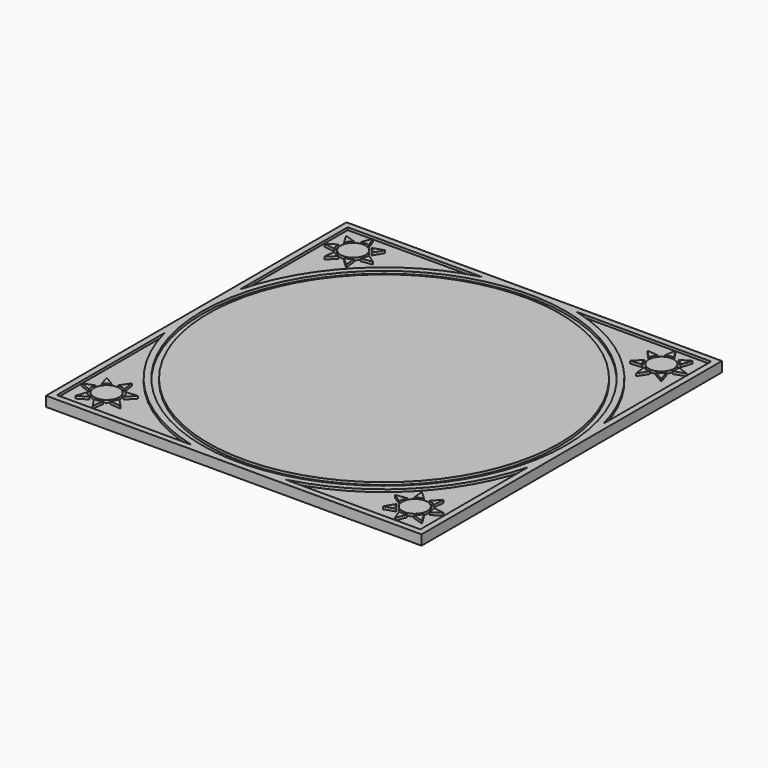
from build123d import *

# Parameters (mm, degrees)
F0_W     = 75
F0_H     = 75
F1_DEPTH = 2
F2_R     = 2.5
F2_R_2   = 36.3
F2_R_3   = 35.1
F3_DEPTH = 0.5
F4_R     = 36.3
F4_R_2   = 35.1
F5_DEPTH = 0.7


with BuildPart() as f1:
    # F0 (on Top) → F1 (new body)
    with BuildSketch(Plane.XY):
        Rectangle(F0_W, F0_H)
    extrude(amount=F1_DEPTH)

    # F2 (on face) → F3 (cut)
    with BuildSketch(Plane.XY.offset(2)):
        with BuildLine():
            Line((9.410632, -36.3), (36.3, -36.3))
            Line((36.3, -36.3), (36.3, -9.410632))
            ThreePointArc((36.3, -9.410632), (26.516504, -26.516504), (9.410632, -36.3))
        make_face()
        with BuildLine():
            ThreePointArc((28.135717, -29.353242), (27.851791, -30.109011), (27.779684, -30.913127))
            Line((27.779684, -30.913127), (25.901935, -29.66397))
            Line((25.901935, -29.66397), (28.135717, -29.353242))
        make_face(mode=Mode.SUBTRACT)
        with BuildLine():
            Line((30.776574, -35.776574), (29.976574, -33.667941))
            ThreePointArc((29.976574, -33.667941), (30.776574, -33.776574), (31.576574, -33.667941))
            Line((31.576574, -33.667941), (30.776574, -35.776574))
        make_face(mode=Mode.SUBTRACT)
        with BuildLine():
            ThreePointArc((28.017221, -31.953847), (28.43108, -32.647044), (29.014805, -33.204777))
            Line((29.014805, -33.204777), (26.867417, -33.894023))
            Line((26.867417, -33.894023), (28.017221, -31.953847))
        make_face(mode=Mode.SUBTRACT)
        with BuildLine():
            ThreePointArc((32.538344, -33.204777), (33.122069, -32.647044), (33.535927, -31.953847))
            Line((33.535927, -31.953847), (34.685732, -33.894023))
            Line((34.685732, -33.894023), (32.538344, -33.204777))
        make_face(mode=Mode.SUBTRACT)
        with Locations((30.776574, -30.776574)):
            Circle(F2_R, mode=Mode.SUBTRACT)
        with BuildLine():
            ThreePointArc((30.242832, -27.824436), (29.474923, -28.073668), (28.801282, -28.51865))
            Line((28.801282, -28.51865), (28.607156, -26.27173))
            Line((28.607156, -26.27173), (30.242832, -27.824436))
        make_face(mode=Mode.SUBTRACT)
        with BuildLine():
            ThreePointArc((33.773465, -30.913127), (33.701358, -30.109011), (33.417431, -29.353242))
            Line((33.417431, -29.353242), (35.651214, -29.66397))
            Line((35.651214, -29.66397), (33.773465, -30.913127))
        make_face(mode=Mode.SUBTRACT)
        with BuildLine():
            ThreePointArc((32.751866, -28.51865), (32.078225, -28.073668), (31.310316, -27.824436))
            Line((31.310316, -27.824436), (32.945993, -26.27173))
            Line((32.945993, -26.27173), (32.751866, -28.51865))
        make_face(mode=Mode.SUBTRACT)
        with BuildLine():
            Line((36.3, 9.410632), (36.3, 36.3))
            Line((36.3, 36.3), (9.410632, 36.3))
            ThreePointArc((9.410632, 36.3), (26.516504, 26.516504), (36.3, 9.410632))
        make_face()
        with BuildLine():
            ThreePointArc((29.353242, 28.135717), (30.109011, 27.851791), (30.913127, 27.779684))
            Line((30.913127, 27.779684), (29.66397, 25.901935))
            Line((29.66397, 25.901935), (29.353242, 28.135717))
        make_face(mode=Mode.SUBTRACT)
        with BuildLine():
            ThreePointArc((27.824436, 30.242832), (28.073668, 29.474923), (28.51865, 28.801282))
            Line((28.51865, 28.801282), (26.27173, 28.607156))
            Line((26.27173, 28.607156), (27.824436, 30.242832))
        make_face(mode=Mode.SUBTRACT)
        with Locations((30.776574, 30.776574)):
            Circle(F2_R, mode=Mode.SUBTRACT)
        with BuildLine():
            ThreePointArc((31.953847, 28.017221), (32.647044, 28.43108), (33.204777, 29.014805))
            Line((33.204777, 29.014805), (33.894023, 26.867417))
            Line((33.894023, 26.867417), (31.953847, 28.017221))
        make_face(mode=Mode.SUBTRACT)
        with BuildLine():
            Line((35.776574, 30.776574), (33.667941, 29.976574))
            ThreePointArc((33.667941, 29.976574), (33.776574, 30.776574), (33.667941, 31.576574))
            Line((33.667941, 31.576574), (35.776574, 30.776574))
        make_face(mode=Mode.SUBTRACT)
        with BuildLine():
            ThreePointArc((28.51865, 32.751866), (28.073668, 32.078225), (27.824436, 31.310316))
            Line((27.824436, 31.310316), (26.27173, 32.945993))
            Line((26.27173, 32.945993), (28.51865, 32.751866))
        make_face(mode=Mode.SUBTRACT)
        with BuildLine():
            ThreePointArc((30.913127, 33.773465), (30.109011, 33.701358), (29.353242, 33.417431))
            Line((29.353242, 33.417431), (29.66397, 35.651214))
            Line((29.66397, 35.651214), (30.913127, 33.773465))
        make_face(mode=Mode.SUBTRACT)
        with BuildLine():
            ThreePointArc((33.204777, 32.538344), (32.647044, 33.122069), (31.953847, 33.535927))
            Line((31.953847, 33.535927), (33.894023, 34.685732))
            Line((33.894023, 34.685732), (33.204777, 32.538344))
        make_face(mode=Mode.SUBTRACT)
        with BuildLine():
            Line((-36.3, -9.410632), (-36.3, -36.3))
            Line((-36.3, -36.3), (-9.410632, -36.3))
            ThreePointArc((-9.410632, -36.3), (-26.516504, -26.516504), (-36.3, -9.410632))
        make_face()
        with BuildLine():
            ThreePointArc((-33.204777, -32.538344), (-32.647044, -33.122069), (-31.953847, -33.535927))
            Line((-31.953847, -33.535927), (-33.894023, -34.685732))
            Line((-33.894023, -34.685732), (-33.204777, -32.538344))
        make_face(mode=Mode.SUBTRACT)
        with BuildLine():
            ThreePointArc((-30.913127, -33.773465), (-30.109011, -33.701358), (-29.353242, -33.417431))
            Line((-29.353242, -33.417431), (-29.66397, -35.651214))
            Line((-29.66397, -35.651214), (-30.913127, -33.773465))
        make_face(mode=Mode.SUBTRACT)
        with BuildLine():
            ThreePointArc((-28.51865, -32.751866), (-28.073668, -32.078225), (-27.824436, -31.310316))
            Line((-27.824436, -31.310316), (-26.27173, -32.945993))
            Line((-26.27173, -32.945993), (-28.51865, -32.751866))
        make_face(mode=Mode.SUBTRACT)
        with BuildLine():
            Line((-35.776574, -30.776574), (-33.667941, -29.976574))
            ThreePointArc((-33.667941, -29.976574), (-33.776574, -30.776574), (-33.667941, -31.576574))
            Line((-33.667941, -31.576574), (-35.776574, -30.776574))
        make_face(mode=Mode.SUBTRACT)
        with BuildLine():
            ThreePointArc((-31.953847, -28.017221), (-32.647044, -28.43108), (-33.204777, -29.014805))
            Line((-33.204777, -29.014805), (-33.894023, -26.867417))
            Line((-33.894023, -26.867417), (-31.953847, -28.017221))
        make_face(mode=Mode.SUBTRACT)
        with Locations((-30.776574, -30.776574)):
            Circle(F2_R, mode=Mode.SUBTRACT)
        with BuildLine():
            ThreePointArc((-27.824436, -30.242832), (-28.073668, -29.474923), (-28.51865, -28.801282))
            Line((-28.51865, -28.801282), (-26.27173, -28.607156))
            Line((-26.27173, -28.607156), (-27.824436, -30.242832))
        make_face(mode=Mode.SUBTRACT)
        with BuildLine():
            ThreePointArc((-29.353242, -28.135717), (-30.109011, -27.851791), (-30.913127, -27.779684))
            Line((-30.913127, -27.779684), (-29.66397, -25.901935))
            Line((-29.66397, -25.901935), (-29.353242, -28.135717))
        make_face(mode=Mode.SUBTRACT)
        with BuildLine():
            ThreePointArc((-36.3, 9.410632), (-26.516504, 26.516504), (-9.410632, 36.3))
            Line((-9.410632, 36.3), (-36.3, 36.3))
            Line((-36.3, 36.3), (-36.3, 9.410632))
        make_face()
        with BuildLine():
            Line((-32.945993, 26.27173), (-32.751866, 28.51865))
            ThreePointArc((-32.751866, 28.51865), (-32.078225, 28.073668), (-31.310316, 27.824436))
            Line((-31.310316, 27.824436), (-32.945993, 26.27173))
        make_face(mode=Mode.SUBTRACT)
        with BuildLine():
            Line((-35.651214, 29.66397), (-33.773465, 30.913127))
            ThreePointArc((-33.773465, 30.913127), (-33.701358, 30.109011), (-33.417431, 29.353242))
            Line((-33.417431, 29.353242), (-35.651214, 29.66397))
        make_face(mode=Mode.SUBTRACT)
        with BuildLine():
            Line((-28.607156, 26.27173), (-30.242832, 27.824436))
            ThreePointArc((-30.242832, 27.824436), (-29.474923, 28.073668), (-28.801282, 28.51865))
            Line((-28.801282, 28.51865), (-28.607156, 26.27173))
        make_face(mode=Mode.SUBTRACT)
        with Locations((-30.776574, 30.776574)):
            Circle(F2_R, mode=Mode.SUBTRACT)
        with BuildLine():
            Line((-34.685732, 33.894023), (-32.538344, 33.204777))
            ThreePointArc((-32.538344, 33.204777), (-33.122069, 32.647044), (-33.535927, 31.953847))
            Line((-33.535927, 31.953847), (-34.685732, 33.894023))
        make_face(mode=Mode.SUBTRACT)
        with BuildLine():
            Line((-26.867417, 33.894023), (-28.017221, 31.953847))
            ThreePointArc((-28.017221, 31.953847), (-28.43108, 32.647044), (-29.014805, 33.204777))
            Line((-29.014805, 33.204777), (-26.867417, 33.894023))
        make_face(mode=Mode.SUBTRACT)
        with BuildLine():
            Line((-30.776574, 35.776574), (-29.976574, 33.667941))
            ThreePointArc((-29.976574, 33.667941), (-30.776574, 33.776574), (-31.576574, 33.667941))
            Line((-31.576574, 33.667941), (-30.776574, 35.776574))
        make_face(mode=Mode.SUBTRACT)
        with BuildLine():
            Line((-25.901935, 29.66397), (-28.135717, 29.353242))
            ThreePointArc((-28.135717, 29.353242), (-27.851791, 30.109011), (-27.779684, 30.913127))
            Line((-27.779684, 30.913127), (-25.901935, 29.66397))
        make_face(mode=Mode.SUBTRACT)
        Circle(F2_R_2)
        Circle(F2_R_3, mode=Mode.SUBTRACT)
    extrude(amount=-F3_DEPTH, mode=Mode.SUBTRACT)

    # F4 (on face) → F5 (cut)
    with BuildSketch(Plane(origin=(0, 0, 0), x_dir=(1, 0, 0), z_dir=(0, 0, -1))):
        with BuildLine():
            Line((30.776574, 35.776574), (29.976574, 33.667941))
            ThreePointArc((29.976574, 33.667941), (30.776574, 33.776574), (31.576574, 33.667941))
            Line((31.576574, 33.667941), (30.776574, 35.776574))
        make_face()
        with BuildLine():
            ThreePointArc((28.017221, 31.953847), (28.43108, 32.647044), (29.014805, 33.204777))
            Line((29.014805, 33.204777), (26.867417, 33.894023))
            Line((26.867417, 33.894023), (28.017221, 31.953847))
        make_face()
        with BuildLine():
            ThreePointArc((28.135717, 29.353242), (27.851791, 30.109011), (27.779684, 30.913127))
            Line((27.779684, 30.913127), (25.901935, 29.66397))
            Line((25.901935, 29.66397), (28.135717, 29.353242))
        make_face()
        with BuildLine():
            ThreePointArc((30.242832, 27.824436), (29.474923, 28.073668), (28.801282, 28.51865))
            Line((28.801282, 28.51865), (28.607156, 26.27173))
            Line((28.607156, 26.27173), (30.242832, 27.824436))
        make_face()
        with BuildLine():
            ThreePointArc((32.751866, 28.51865), (32.078225, 28.073668), (31.310316, 27.824436))
            Line((31.310316, 27.824436), (32.945993, 26.27173))
            Line((32.945993, 26.27173), (32.751866, 28.51865))
        make_face()
        with BuildLine():
            ThreePointArc((33.773465, 30.913127), (33.701358, 30.109011), (33.417431, 29.353242))
            Line((33.417431, 29.353242), (35.651214, 29.66397))
            Line((35.651214, 29.66397), (33.773465, 30.913127))
        make_face()
        with BuildLine():
            ThreePointArc((32.538344, 33.204777), (33.122069, 32.647044), (33.535927, 31.953847))
            Line((33.535927, 31.953847), (34.685732, 33.894023))
            Line((34.685732, 33.894023), (32.538344, 33.204777))
        make_face()
        with BuildLine():
            ThreePointArc((-30.913127, 33.773465), (-30.109011, 33.701358), (-29.353242, 33.417431))
            Line((-29.353242, 33.417431), (-29.66397, 35.651214))
            Line((-29.66397, 35.651214), (-30.913127, 33.773465))
        make_face()
        with BuildLine():
            ThreePointArc((-33.204777, 32.538344), (-32.647044, 33.122069), (-31.953847, 33.535927))
            Line((-31.953847, 33.535927), (-33.894023, 34.685732))
            Line((-33.894023, 34.685732), (-33.204777, 32.538344))
        make_face()
        with BuildLine():
            Line((-35.776574, 30.776574), (-33.667941, 29.976574))
            ThreePointArc((-33.667941, 29.976574), (-33.776574, 30.776574), (-33.667941, 31.576574))
            Line((-33.667941, 31.576574), (-35.776574, 30.776574))
        make_face()
        with BuildLine():
            Line((-33.204777, 29.014805), (-33.894023, 26.867417))
            Line((-33.894023, 26.867417), (-31.953847, 28.017221))
            ThreePointArc((-31.953847, 28.017221), (-32.647044, 28.43108), (-33.204777, 29.014805))
        make_face()
        with BuildLine():
            ThreePointArc((-29.353242, 28.135717), (-30.109011, 27.851791), (-30.913127, 27.779684))
            Line((-30.913127, 27.779684), (-29.66397, 25.901935))
            Line((-29.66397, 25.901935), (-29.353242, 28.135717))
        make_face()
        with BuildLine():
            ThreePointArc((-27.824436, 30.242832), (-28.073668, 29.474923), (-28.51865, 28.801282))
            Line((-28.51865, 28.801282), (-26.27173, 28.607156))
            Line((-26.27173, 28.607156), (-27.824436, 30.242832))
        make_face()
        with BuildLine():
            ThreePointArc((-28.51865, 32.751866), (-28.073668, 32.078225), (-27.824436, 31.310316))
            Line((-27.824436, 31.310316), (-26.27173, 32.945993))
            Line((-26.27173, 32.945993), (-28.51865, 32.751866))
        make_face()
        with BuildLine():
            Line((-28.607156, -26.27173), (-30.242832, -27.824436))
            ThreePointArc((-30.242832, -27.824436), (-29.474923, -28.073668), (-28.801282, -28.51865))
            Line((-28.801282, -28.51865), (-28.607156, -26.27173))
        make_face()
        with BuildLine():
            Line((-32.945993, -26.27173), (-32.751866, -28.51865))
            ThreePointArc((-32.751866, -28.51865), (-32.078225, -28.073668), (-31.310316, -27.824436))
            Line((-31.310316, -27.824436), (-32.945993, -26.27173))
        make_face()
        with BuildLine():
            Line((-35.651214, -29.66397), (-33.773465, -30.913127))
            ThreePointArc((-33.773465, -30.913127), (-33.701358, -30.109011), (-33.417431, -29.353242))
            Line((-33.417431, -29.353242), (-35.651214, -29.66397))
        make_face()
        with BuildLine():
            Line((-34.685732, -33.894023), (-32.538344, -33.204777))
            ThreePointArc((-32.538344, -33.204777), (-33.122069, -32.647044), (-33.535927, -31.953847))
            Line((-33.535927, -31.953847), (-34.685732, -33.894023))
        make_face()
        with BuildLine():
            Line((-30.776574, -35.776574), (-29.976574, -33.667941))
            ThreePointArc((-29.976574, -33.667941), (-30.776574, -33.776574), (-31.576574, -33.667941))
            Line((-31.576574, -33.667941), (-30.776574, -35.776574))
        make_face()
        with BuildLine():
            Line((-26.867417, -33.894023), (-28.017221, -31.953847))
            ThreePointArc((-28.017221, -31.953847), (-28.43108, -32.647044), (-29.014805, -33.204777))
            Line((-29.014805, -33.204777), (-26.867417, -33.894023))
        make_face()
        with BuildLine():
            Line((-25.901935, -29.66397), (-28.135717, -29.353242))
            ThreePointArc((-28.135717, -29.353242), (-27.851791, -30.109011), (-27.779684, -30.913127))
            Line((-27.779684, -30.913127), (-25.901935, -29.66397))
        make_face()
        with BuildLine():
            ThreePointArc((29.353242, -28.135717), (30.109011, -27.851791), (30.913127, -27.779684))
            Line((30.913127, -27.779684), (29.66397, -25.901935))
            Line((29.66397, -25.901935), (29.353242, -28.135717))
        make_face()
        with BuildLine():
            ThreePointArc((27.824436, -30.242832), (28.073668, -29.474923), (28.51865, -28.801282))
            Line((28.51865, -28.801282), (26.27173, -28.607156))
            Line((26.27173, -28.607156), (27.824436, -30.242832))
        make_face()
        with BuildLine():
            ThreePointArc((28.51865, -32.751866), (28.073668, -32.078225), (27.824436, -31.310316))
            Line((27.824436, -31.310316), (26.27173, -32.945993))
            Line((26.27173, -32.945993), (28.51865, -32.751866))
        make_face()
        with BuildLine():
            ThreePointArc((30.913127, -33.773465), (30.109011, -33.701358), (29.353242, -33.417431))
            Line((29.353242, -33.417431), (29.66397, -35.651214))
            Line((29.66397, -35.651214), (30.913127, -33.773465))
        make_face()
        with BuildLine():
            ThreePointArc((33.204777, -32.538344), (32.647044, -33.122069), (31.953847, -33.535927))
            Line((31.953847, -33.535927), (33.894023, -34.685732))
            Line((33.894023, -34.685732), (33.204777, -32.538344))
        make_face()
        with BuildLine():
            Line((35.776574, -30.776574), (33.667941, -29.976574))
            ThreePointArc((33.667941, -29.976574), (33.776574, -30.776574), (33.667941, -31.576574))
            Line((33.667941, -31.576574), (35.776574, -30.776574))
        make_face()
        with BuildLine():
            ThreePointArc((31.953847, -28.017221), (32.647044, -28.43108), (33.204777, -29.014805))
            Line((33.204777, -29.014805), (33.894023, -26.867417))
            Line((33.894023, -26.867417), (31.953847, -28.017221))
        make_face()
        Circle(F4_R)
        Circle(F4_R_2, mode=Mode.SUBTRACT)
    extrude(amount=-F5_DEPTH, mode=Mode.SUBTRACT)


solid = f1.part
